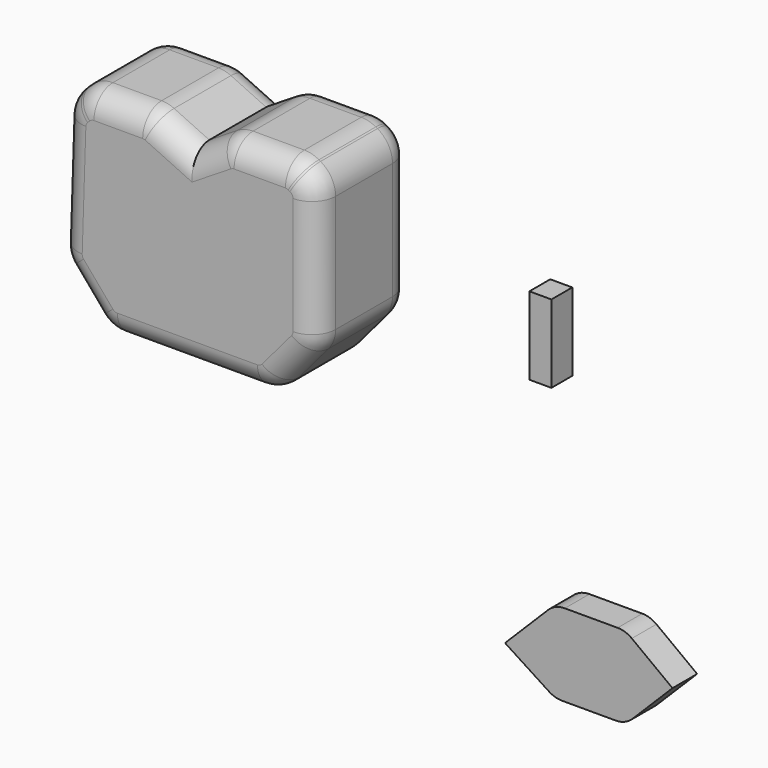
from build123d import *

# Parameters (mm, degrees)
F1_DEPTH = 25.4
F2_R     = 5.08
F3_W     = 4.725
F3_H     = 16.695001
F4_DEPTH = 5.588
F6_DEPTH = 6.604
F7_R     = 5.08


with BuildPart() as f1:
    # F0 (on Front) → F1 (new body)
    with BuildSketch(Plane.XZ):
        with BuildLine():
            Line((-31.784337, 44.552292), (-37.800003, 40.792499))
            Line((-37.800003, 40.792499), (-45.348169, 44.297005))
            ThreePointArc((-45.348169, 44.297005), (-46.652987, 44.738118), (-48.022226, 44.887498))
            Line((-48.022226, 44.887498), (-58.479745, 44.887498))
            ThreePointArc((-58.479745, 44.887498), (-60.909785, 44.404133), (-62.969873, 43.027626))
            Line((-62.969873, 43.027626), (-63.429391, 42.568108))
            ThreePointArc((-63.429391, 42.568108), (-64.765956, 40.602291), (-65.285961, 38.282713))
            Line((-65.285961, 38.282713), (-66.071024, 13.945811))
            ThreePointArc((-66.071024, 13.945811), (-65.719398, 11.647849), (-64.564275, 9.630435))
            Line((-64.564275, 9.630435), (-58.286919, 2.239357))
            ThreePointArc((-58.286919, 2.239357), (-56.11342, 0.586968), (-53.44697, 0))
            Line((-53.44697, 0), (-23.413032, 0))
            ThreePointArc((-23.413032, 0), (-20.746581, 0.586968), (-18.573082, 2.239357))
            Line((-18.573082, 2.239357), (-12.22005, 9.719538))
            ThreePointArc((-12.22005, 9.719538), (-11.099456, 11.640567), (-10.71, 13.830181))
            Line((-10.71, 13.830181), (-10.71, 38.96872))
            ThreePointArc((-10.71, 38.96872), (-11.578619, 42.17449), (-13.946838, 44.503223))
            Line((-13.946838, 44.503223), (-14.300231, 44.702007))
            ThreePointArc((-14.300231, 44.702007), (-15.804293, 45.310248), (-17.413394, 45.517504))
            Line((-17.413394, 45.517504), (-28.418842, 45.517504))
            ThreePointArc((-28.418842, 45.517504), (-30.169427, 45.271433), (-31.784337, 44.552292))
        make_face()
    extrude(amount=F1_DEPTH)

    # F2
    f2_edges = [f1.edges().sort_by_distance(p)[0] for p in [
        (-60.909785, -25.4, 44.404133),
        (-15.804293, 0, 45.310248),
        (-10.71, -12.7, 13.830181),
        (-10.71, -12.7, 38.96872),
        (-10.71, 0, 26.399451),
        (-10.71, -25.4, 26.399451),
        (-65.285961, -12.7, 38.282713),
        (-66.071024, -12.7, 13.945811),
        (-65.678493, 0, 26.114262),
        (-65.678493, -25.4, 26.114262),
        (-13.946838, -12.7, 44.503223),
        (-63.429391, -12.7, 42.568108),
    ]]
    fillet(f2_edges, radius=F2_R)


with BuildPart() as f4:
    # F3 (on Front) → F4 (new body)
    with BuildSketch(Plane.XZ):
        with Locations((21.419997, 16.380001)):
            Rectangle(F3_W, F3_H)
    extrude(amount=F4_DEPTH)


with BuildPart() as f6:
    # F5 (on Front) → F6 (new body)
    with BuildSketch(Plane.XZ):
        Polygon((25.357498, -31.972498), (14.647499, -42.682499), (25.357498, -49.6125), (40.477503, -49.6125), (50.557498, -39.532501), (40.477503, -31.972498), align=None)
    extrude(amount=F6_DEPTH)

    # F7
    f7_edges = [f6.edges().sort_by_distance(p)[0] for p in [
        (40.477503, -3.302, -31.972498),
        (40.477503, -3.302, -49.6125),
        (25.357498, -3.302, -49.6125),
        (25.357498, -3.302, -31.972498),
    ]]
    fillet(f7_edges, radius=F7_R)


solid = Compound([f1.part, f4.part, f6.part])
